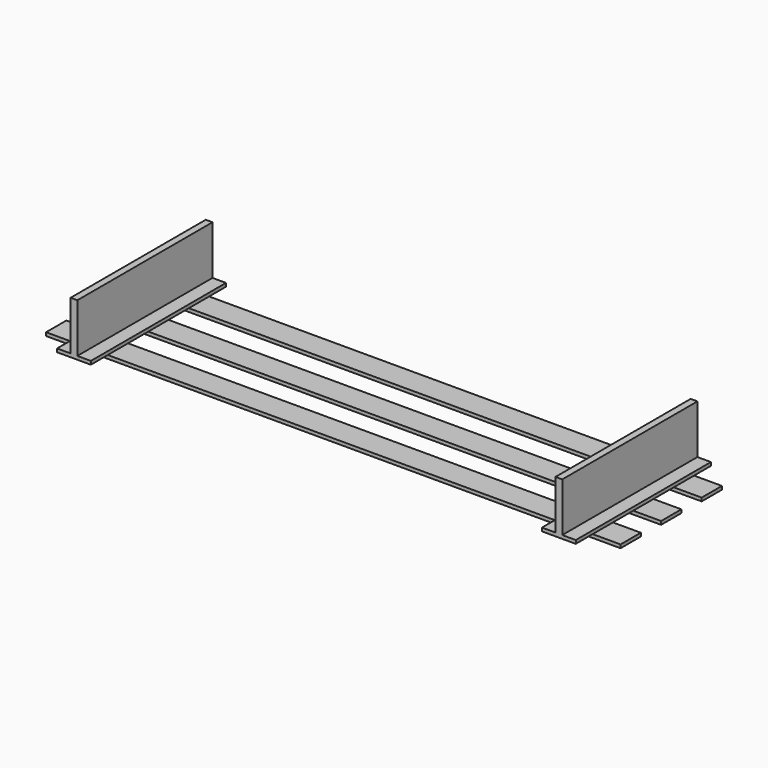
from build123d import *

# Parameters (mm, degrees)
F1_DEPTH = 250
F2_W     = 1700
F2_H     = 75
F3_DEPTH = 10


with BuildPart() as f1:
    # F0 (on Front) → F1 (new body, symmetric)
    with BuildSketch(Plane.XZ):
        Polygon((-727.5, 5), (-767.5, 5), (-767.5, -5), (-667.5, -5), (-667.5, 5), (-707.5, 5), align=None)
        Polygon((-727.5, 150), (-727.5, 5), (-707.5, 5), (-707.5, 150), (-717.5, 150), align=None)
    extrude(amount=F1_DEPTH, both=True)


with BuildPart() as f1b:
    # F0 (on Front) → F1, piece 2 (new body, symmetric)
    with BuildSketch(Plane.XZ):
        Polygon((707.5, 5), (667.5, 5), (667.5, -5), (767.5, -5), (767.5, 5), (727.5, 5), align=None)
        Polygon((707.5, 150), (707.5, 5), (727.5, 5), (727.5, 150), (717.5, 150), align=None)
    extrude(amount=F1_DEPTH, both=True)


with BuildPart() as f3:
    # F2 (on face) → F3 (new body)
    with BuildSketch(Plane(origin=(0, 0, -5), x_dir=(1, 0, 0), z_dir=(0, 0, -1))):
        Rectangle(F2_W, F2_H)
    extrude(amount=F3_DEPTH)


with BuildPart() as f3b:
    # F2 (on face) → F3, piece 2 (new body)
    with BuildSketch(Plane(origin=(0, 0, -5), x_dir=(1, 0, 0), z_dir=(0, 0, -1))):
        with Locations((0, 150)):
            Rectangle(F2_W, F2_H)
    extrude(amount=F3_DEPTH)


with BuildPart() as f3c:
    # F2 (on face) → F3, piece 3 (new body)
    with BuildSketch(Plane(origin=(0, 0, -5), x_dir=(1, 0, 0), z_dir=(0, 0, -1))):
        with Locations((0, -150)):
            Rectangle(F2_W, F2_H)
    extrude(amount=F3_DEPTH)


solid = Compound([f1.part, f1b.part, f3.part, f3b.part, f3c.part])
